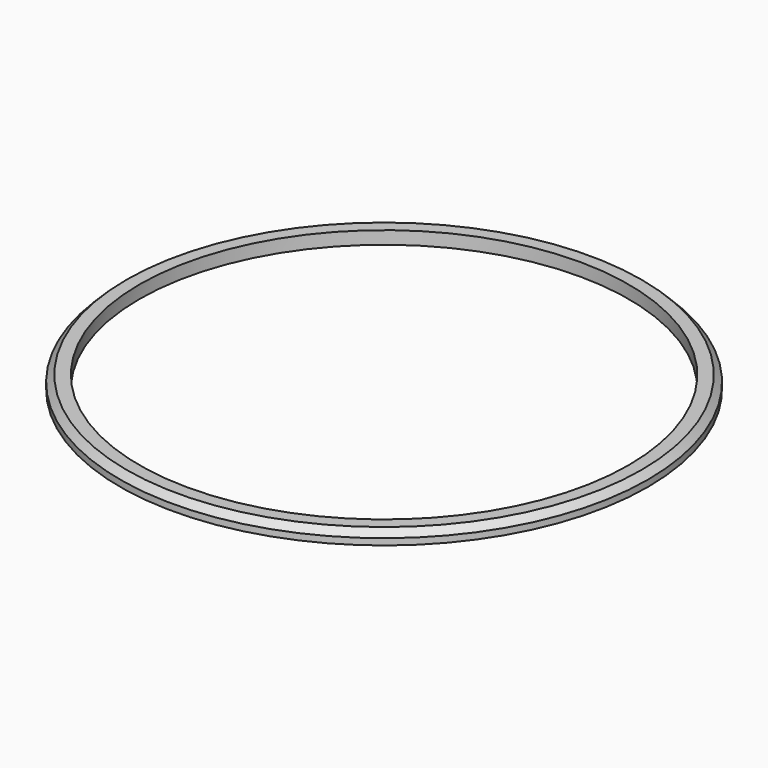
from build123d import *

# Parameters (mm, degrees)
SKETCH_R     = 41
SKETCH_R_2   = 38
PAD_DEPTH    = 2
CHAMFER_SIZE = 1


with BuildPart() as part:
    # Sketch → Pad (new body)
    with BuildSketch(Plane.XY):
        Circle(SKETCH_R)
        Circle(SKETCH_R_2, mode=Mode.SUBTRACT)
    extrude(amount=PAD_DEPTH)

    # Chamfer
    chamfer_edges = [part.edges().sort_by_distance(p)[0] for p in [
        (-41, 0, 2),
    ]]
    chamfer(chamfer_edges, length=CHAMFER_SIZE)


solid = part.part
